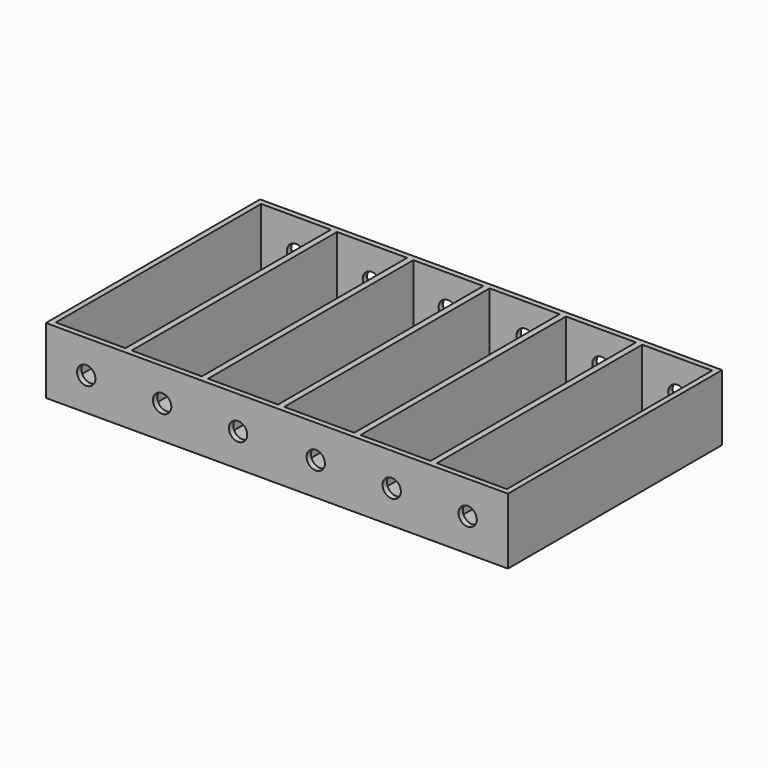
from build123d import *

# Parameters (mm, degrees)
F0_W     = 126
F0_H     = 73
F1_DEPTH = 2
F2_W     = 1.7
F2_H     = 1.5
F2_W_2   = 19.1
F2_H_2   = 70
F3_DEPTH = 16
F5_DEPTH = 100
F6_R     = 0.1


with BuildPart() as f1:
    # F0 (on Top) → F1 (new body)
    with BuildSketch(Plane.XY):
        Rectangle(F0_W, F0_H)
    extrude(amount=F1_DEPTH)

    # F2 (on face) → F3 (join)
    with BuildSketch(Plane.XY.offset(2)):
        Polygon((42.4, 35), (61.5, 35), (61.5, -35), (42.4, -35), (42.4, -36.5), (63, -36.5), (63, 36.5), (42.4, 36.5), align=None)
        with Locations((41.55, 35.75)):
            Rectangle(F2_W, F2_H)
        with Locations((31.15, 35.75)):
            Rectangle(F2_W_2, F2_H)
        with Locations((41.55, -35.75)):
            Rectangle(F2_W, F2_H)
        with Locations((20.75, 35.75)):
            Rectangle(F2_W, F2_H)
        with Locations((31.15, -35.75)):
            Rectangle(F2_W_2, F2_H)
        with Locations((10.35, 35.75)):
            Rectangle(F2_W_2, F2_H)
        with Locations((20.75, -35.75)):
            Rectangle(F2_W, F2_H)
        with Locations((-0.05, 35.75)):
            Rectangle(F2_W, F2_H)
        with Locations((10.35, -35.75)):
            Rectangle(F2_W_2, F2_H)
        with Locations((-10.45, 35.75)):
            Rectangle(F2_W_2, F2_H)
        with Locations((-0.05, -35.75)):
            Rectangle(F2_W, F2_H)
        with Locations((-20.85, 35.75)):
            Rectangle(F2_W, F2_H)
        with Locations((-10.45, -35.75)):
            Rectangle(F2_W_2, F2_H)
        with Locations((-31.25, 35.75)):
            Rectangle(F2_W_2, F2_H)
        with Locations((-20.85, -35.75)):
            Rectangle(F2_W, F2_H)
        with Locations((-41.65, 35.75)):
            Rectangle(F2_W, F2_H)
        with Locations((-31.25, -35.75)):
            Rectangle(F2_W_2, F2_H)
        Polygon((-61.5, 35), (-42.5, 35), (-42.5, 36.5), (-63, 36.5), (-63, -36.5), (-42.5, -36.5), (-42.5, -35), (-61.5, -35), align=None)
        with Locations((-41.65, -35.75)):
            Rectangle(F2_W, F2_H)
        with Locations((-41.65, 0)):
            Rectangle(F2_W, F2_H_2)
        with Locations((-20.85, 0)):
            Rectangle(F2_W, F2_H_2)
        with Locations((-0.05, 0)):
            Rectangle(F2_W, F2_H_2)
        with Locations((20.75, 0)):
            Rectangle(F2_W, F2_H_2)
        with Locations((41.55, 0)):
            Rectangle(F2_W, F2_H_2)
    extrude(amount=F3_DEPTH)

    # F4 (on face) → F5 (cut)
    with BuildSketch(Plane.XZ.offset(36.5)):
        with BuildLine():
            ThreePointArc((-49.5, 9), (-52, 11.5), (-54.5, 9))
            Line((-54.5, 9), (-49.5, 9))
        make_face()
        with BuildLine():
            ThreePointArc((54.5, 9), (52, 11.5), (49.5, 9))
            Line((49.5, 9), (54.5, 9))
        make_face()
        with BuildLine():
            Line((54.5, 9), (49.5, 9))
            ThreePointArc((49.5, 9), (52, 6.5), (54.5, 9))
        make_face()
        with BuildLine():
            ThreePointArc((33.8, 9), (31.3, 11.5), (28.8, 9))
            Line((28.8, 9), (33.8, 9))
        make_face()
        with BuildLine():
            Line((33.8, 9), (28.8, 9))
            ThreePointArc((28.8, 9), (31.3, 6.5), (33.8, 9))
        make_face()
        with BuildLine():
            ThreePointArc((13.1, 9), (10.6, 11.5), (8.1, 9))
            Line((8.1, 9), (13.1, 9))
        make_face()
        with BuildLine():
            Line((13.1, 9), (8.1, 9))
            ThreePointArc((8.1, 9), (10.6, 6.5), (13.1, 9))
        make_face()
        with BuildLine():
            ThreePointArc((-8.1, 9), (-10.6, 11.5), (-13.1, 9))
            Line((-13.1, 9), (-8.1, 9))
        make_face()
        with BuildLine():
            Line((-8.1, 9), (-13.1, 9))
            ThreePointArc((-13.1, 9), (-10.6, 6.5), (-8.1, 9))
        make_face()
        with BuildLine():
            ThreePointArc((-28.8, 9), (-31.3, 11.5), (-33.8, 9))
            Line((-33.8, 9), (-28.8, 9))
        make_face()
        with BuildLine():
            Line((-28.8, 9), (-33.8, 9))
            ThreePointArc((-33.8, 9), (-31.3, 6.5), (-28.8, 9))
        make_face()
        with BuildLine():
            Line((-49.5, 9), (-54.5, 9))
            ThreePointArc((-54.5, 9), (-52, 6.5), (-49.5, 9))
        make_face()
    extrude(amount=-F5_DEPTH, mode=Mode.SUBTRACT)

    # F6
    f6_edges = [f1.edges().sort_by_distance(p)[0] for p in [
        (-63, -36.5, 9),
        (63, -36.5, 9),
        (63, 36.5, 9),
        (-63, 36.5, 9),
    ]]
    fillet(f6_edges, radius=F6_R)


solid = f1.part
